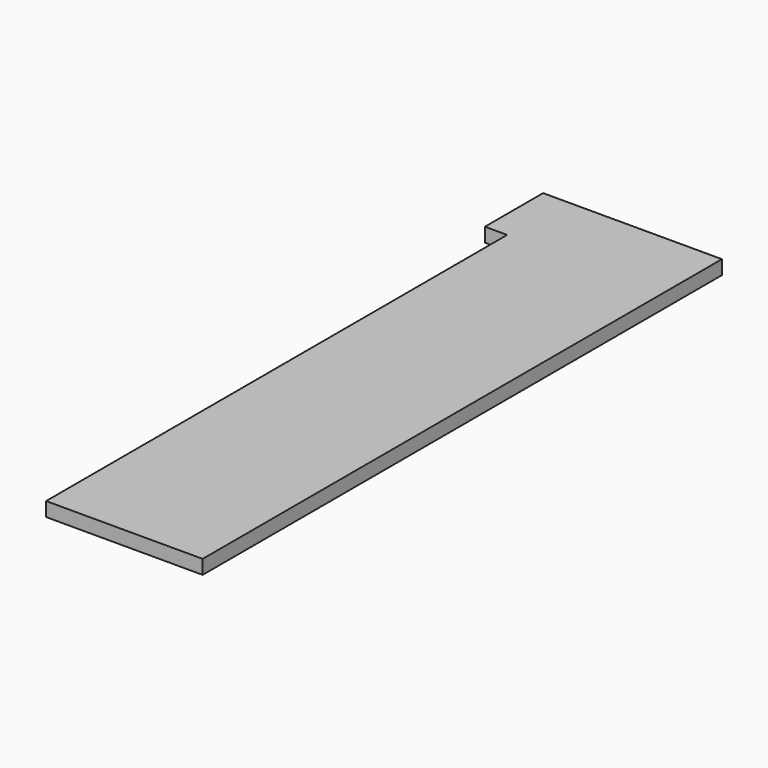
from build123d import *

# Parameters (mm, degrees)
F0_W     = 21.1
F0_H     = 87.47
F1_DEPTH = 1.9
F2_W     = 17.6
F2_H     = 83.77
F2_W_2   = 13.6
F2_H_2   = 79.77
F3_DEPTH = 0.8
F4_W     = 9.8
F4_H     = 1.9
F5_DEPTH = 3


with BuildPart() as f1:
    # F0 (on Top) → F1 (new body)
    with BuildSketch(Plane.XY):
        with Locations((10.55, 43.735)):
            Rectangle(F0_W, F0_H)
    extrude(amount=F1_DEPTH)

    # F4 (on face) → F5 (join)
    with BuildSketch(Plane(origin=(0, 0, 0), x_dir=(0, -1, 0), z_dir=(-1, 0, 0))):
        with Locations((-82.57, 0.95)):
            Rectangle(F4_W, F4_H)
    extrude(amount=F5_DEPTH)


with BuildPart() as f3:
    # F2 (on Top) → F3 (new body)
    with BuildSketch(Plane.XY):
        with Locations((36.552641, 44.763047)):
            Rectangle(F2_W, F2_H)
        with Locations((36.552641, 44.763047)):
            Rectangle(F2_W_2, F2_H_2, mode=Mode.SUBTRACT)
    extrude(amount=F3_DEPTH)


solid = f1.part
